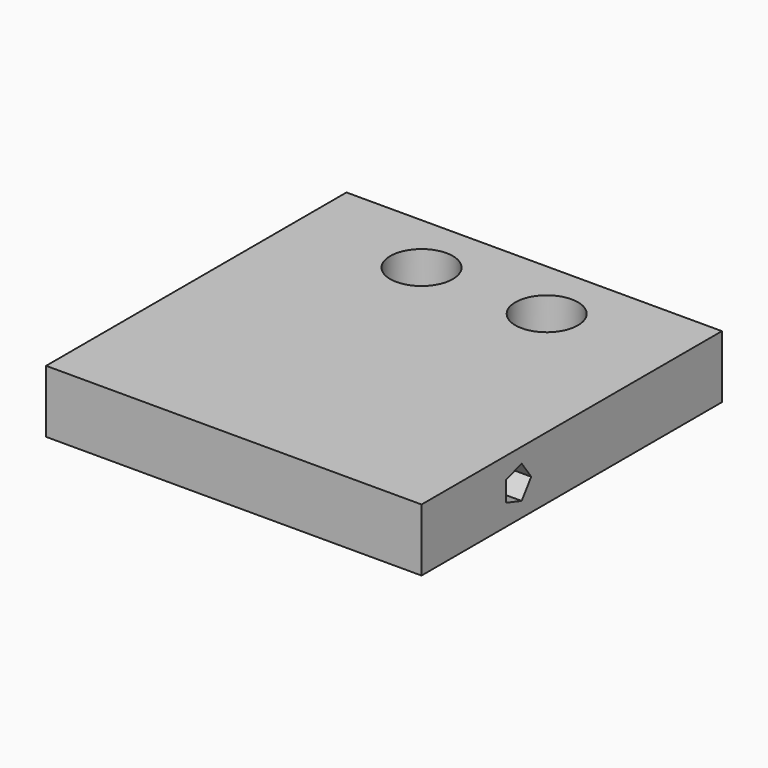
from build123d import *

# Parameters (mm, degrees)
F0_W     = 76.2
F0_H     = 76.2
F0_R     = 6.35
F1_DEPTH = 12.7
F3_DEPTH = 25.4


with BuildPart() as f1:
    # F0 (on Top) → F1 (new body)
    with BuildSketch(Plane.XY):
        with Locations((38.1, 38.1)):
            Rectangle(F0_W, F0_H)
        with Locations((25.4, 63.5)):
            Circle(F0_R, mode=Mode.SUBTRACT)
        with Locations((50.8, 63.5)):
            Circle(F0_R, mode=Mode.SUBTRACT)
    extrude(amount=F1_DEPTH)

    # F2 (on face) → F3 (cut)
    with BuildSketch(Plane.YZ.offset(76.2)):
        Polygon((27.825484, 6.35), (25.4, 9.688393), (21.475484, 8.41324), (21.475484, 4.28676), (25.4, 3.011607), align=None)
    extrude(amount=-F3_DEPTH, mode=Mode.SUBTRACT)


solid = f1.part
